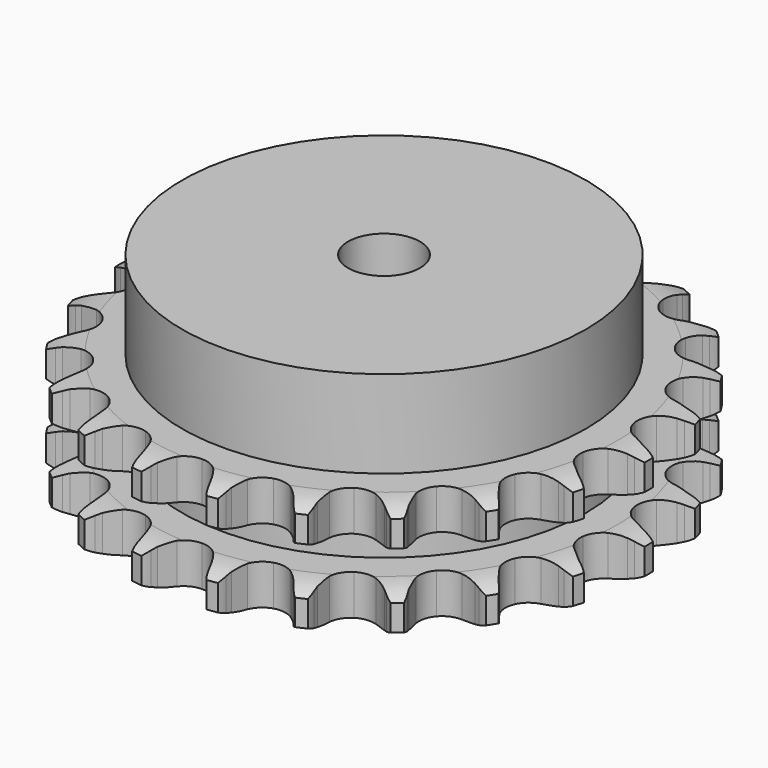
from build123d import *

# Parameters (mm, degrees)
PAD_DEPTH         = 25.5
SKETCH001_R       = 45
PAD001_DEPTH      = 45
SKETCH002_R       = 8
POCKET_DEPTH      = 0.001
POCKET_DEPTH_BACK = 45.001


with BuildPart() as part:
    # Sprocket → Pad (new body)
    with BuildSketch(Plane.XY):
        with BuildLine():
            ThreePointArc((-8.640686, 60.097289), (-7.303352, 58.644234), (-6.344236, 56.917988))
            Line((-6.344236, 56.917988), (-5.852618, 55.717672))
            ThreePointArc((-5.852618, 55.717672), (-5.064758, 54.112029), (-4.068161, 52.6269))
            ThreePointArc((-4.068161, 52.6269), (-2.265758, 51.156659), (0, 50.630726))
            ThreePointArc((0, 50.630726), (2.265758, 51.156659), (4.068161, 52.6269))
            ThreePointArc((4.068161, 52.6269), (5.064758, 54.112029), (5.852618, 55.717672))
            Line((5.852618, 55.717672), (6.344236, 56.917988))
            ThreePointArc((6.344236, 56.917988), (7.303352, 58.644234), (8.640686, 60.097289))
            ThreePointArc((8.640686, 60.097289), (9.514475, 58.326323), (9.9484, 56.399787))
            Line((9.9484, 56.399787), (10.081936, 55.109588))
            ThreePointArc((10.081936, 55.109588), (10.385521, 53.347019), (10.92334, 51.641274))
            ThreePointArc((10.92334, 51.641274), (12.238517, 49.722792), (14.264324, 48.579826))
            ThreePointArc((14.264324, 48.579826), (16.586475, 48.446117), (18.730083, 49.349008))
            Line((18.730083, 49.349008), (21.313028, 51.811841))
            ThreePointArc((21.313028, 51.811841), (21.705579, 52.328336), (22.122901, 52.825031))
            ThreePointArc((22.122901, 52.825031), (23.529505, 54.211138), (25.22204, 55.228564))
            ThreePointArc((25.22204, 55.228564), (25.561496, 53.28316), (25.435076, 51.312411))
            Line((25.435076, 51.312411), (25.199712, 50.036852))
            ThreePointArc((25.199712, 50.036852), (24.994426, 48.26015), (25.029896, 46.471979))
            ThreePointArc((25.029896, 46.471979), (25.751301, 44.260681), (27.373037, 42.593277))
            ThreePointArc((27.373037, 42.593277), (29.563455, 41.810758), (31.874605, 42.073152))
            Line((31.874605, 42.073152), (35.046783, 43.708524))
            ThreePointArc((35.046783, 43.708524), (35.568947, 44.093503), (36.109299, 44.452505))
            ThreePointArc((36.109299, 44.452505), (37.849438, 45.386179), (39.760055, 45.88555))
            ThreePointArc((39.760055, 45.88555), (39.537676, 43.923312), (38.861154, 42.068009))
            Line((38.861154, 42.068009), (38.275957, 40.910429))
            ThreePointArc((38.275957, 40.910429), (37.578432, 39.263532), (37.108679, 37.537801))
            ThreePointArc((37.108679, 37.537801), (37.177867, 35.212833), (38.26415, 33.156075))
            ThreePointArc((38.26415, 33.156075), (40.145379, 31.788141), (42.436836, 31.38878))
            Line((42.436836, 31.38878), (45.941257, 32.064202))
            ThreePointArc((45.941257, 32.064202), (46.55073, 32.286476), (47.170336, 32.478701))
            ThreePointArc((47.170336, 32.478701), (49.103034, 32.884301), (51.076947, 32.82516))
            ThreePointArc((51.076947, 32.82516), (50.310749, 31.005058), (49.138932, 29.415507))
            Line((49.138932, 29.415507), (48.251311, 28.469686))
            ThreePointArc((48.251311, 28.469686), (47.118056, 27.086015), (46.181137, 25.562533))
            ThreePointArc((46.181137, 25.562533), (45.592503, 23.31225), (46.055329, 21.032764))
            ThreePointArc((46.055329, 21.032764), (47.474963, 19.190238), (49.561087, 18.161475))
            Line((49.561087, 18.161475), (53.113842, 17.822228))
            ThreePointArc((53.113842, 17.822228), (53.761249, 17.863791), (54.409914, 17.873666))
            ThreePointArc((54.409914, 17.873666), (56.378594, 17.718332), (58.255888, 17.105472))
            ThreePointArc((58.255888, 17.105472), (57.007945, 15.574959), (55.435766, 14.379936))
            Line((55.435766, 14.379936), (54.317632, 13.722499))
            ThreePointArc((54.317632, 13.722499), (52.840456, 12.714151), (51.512275, 11.516341))
            ThreePointArc((51.512275, 11.516341), (50.313507, 9.523048), (50.115379, 7.205504))
            ThreePointArc((50.115379, 7.205504), (50.958409, 5.037656), (52.670194, 3.462836))
            Line((52.670194, 3.462836), (55.98346, 2.136404))
            ThreePointArc((55.98346, 2.136404), (56.616352, 1.993887), (57.241524, 1.820613))
            ThreePointArc((57.241524, 1.820613), (59.086696, 1.11693), (60.715283, 0))
            ThreePointArc((60.715283, 0), (59.086696, -1.11693), (57.241524, -1.820613))
            Line((57.241524, -1.820613), (55.98346, -2.136404))
            ThreePointArc((55.98346, -2.136404), (54.282037, -2.687739), (52.670194, -3.462836))
            ThreePointArc((52.670194, -3.462836), (50.958409, -5.037656), (50.115379, -7.205504))
            ThreePointArc((50.115379, -7.205504), (50.313507, -9.523048), (51.512275, -11.516341))
            Line((51.512275, -11.516341), (54.317632, -13.722499))
            ThreePointArc((54.317632, -13.722499), (54.884735, -14.037549), (55.435766, -14.379936))
            ThreePointArc((55.435766, -14.379936), (57.007945, -15.574959), (58.255888, -17.105472))
            ThreePointArc((58.255888, -17.105472), (56.378594, -17.718332), (54.409914, -17.873666))
            Line((54.409914, -17.873666), (53.113842, -17.822228))
            ThreePointArc((53.113842, -17.822228), (51.326009, -17.871883), (49.561087, -18.161475))
            ThreePointArc((49.561087, -18.161475), (47.474963, -19.190238), (46.055329, -21.032764))
            ThreePointArc((46.055329, -21.032764), (45.592503, -23.31225), (46.181137, -25.562533))
            Line((46.181137, -25.562533), (48.251311, -28.469686))
            ThreePointArc((48.251311, -28.469686), (48.706683, -28.931746), (49.138932, -29.415507))
            ThreePointArc((49.138932, -29.415507), (50.310749, -31.005058), (51.076947, -32.82516))
            ThreePointArc((51.076947, -32.82516), (49.103034, -32.884301), (47.170336, -32.478701))
            Line((47.170336, -32.478701), (45.941257, -32.064202))
            ThreePointArc((45.941257, -32.064202), (44.211854, -31.608154), (42.436836, -31.38878))
            ThreePointArc((42.436836, -31.38878), (40.145379, -31.788141), (38.26415, -33.156075))
            ThreePointArc((38.26415, -33.156075), (37.177867, -35.212833), (37.108679, -37.537801))
            Line((37.108679, -37.537801), (38.275957, -40.910429))
            ThreePointArc((38.275957, -40.910429), (38.582706, -41.482066), (38.861154, -42.068009))
            ThreePointArc((38.861154, -42.068009), (39.537676, -43.923312), (39.760055, -45.88555))
            ThreePointArc((39.760055, -45.88555), (37.849438, -45.386179), (36.109299, -44.452505))
            Line((36.109299, -44.452505), (35.046783, -43.708524))
            ThreePointArc((35.046783, -43.708524), (33.515917, -42.78372), (31.874605, -42.073152))
            ThreePointArc((31.874605, -42.073152), (29.563455, -41.810758), (27.373037, -42.593277))
            ThreePointArc((27.373037, -42.593277), (25.751301, -44.260681), (25.029896, -46.471979))
            Line((25.029896, -46.471979), (25.199712, -50.036852))
            ThreePointArc((25.199712, -50.036852), (25.332987, -50.671755), (25.435076, -51.312411))
            ThreePointArc((25.435076, -51.312411), (25.561496, -53.28316), (25.22204, -55.228564))
            ThreePointArc((25.22204, -55.228564), (23.529505, -54.211138), (22.122901, -52.825031))
            Line((22.122901, -52.825031), (21.313028, -51.811841))
            ThreePointArc((21.313028, -51.811841), (20.10472, -50.493204), (18.730083, -49.349008))
            ThreePointArc((18.730083, -49.349008), (16.586475, -48.446117), (14.264324, -48.579826))
            ThreePointArc((14.264324, -48.579826), (12.238517, -49.722792), (10.92334, -51.641274))
            Line((10.92334, -51.641274), (10.081936, -55.109588))
            ThreePointArc((10.081936, -55.109588), (10.03094, -55.75632), (9.9484, -56.399787))
            ThreePointArc((9.9484, -56.399787), (9.514475, -58.326323), (8.640686, -60.097289))
            ThreePointArc((8.640686, -60.097289), (7.303352, -58.644234), (6.344236, -56.917988))
            Line((6.344236, -56.917988), (5.852618, -55.717672))
            ThreePointArc((5.852618, -55.717672), (5.064758, -54.112029), (4.068161, -52.6269))
            ThreePointArc((4.068161, -52.6269), (2.265758, -51.156659), (0, -50.630726))
            ThreePointArc((0, -50.630726), (-2.265758, -51.156659), (-4.068161, -52.6269))
            Line((-4.068161, -52.6269), (-5.852618, -55.717672))
            ThreePointArc((-5.852618, -55.717672), (-6.083754, -56.323839), (-6.344236, -56.917988))
            ThreePointArc((-6.344236, -56.917988), (-7.303352, -58.644234), (-8.640686, -60.097289))
            ThreePointArc((-8.640686, -60.097289), (-9.514475, -58.326323), (-9.9484, -56.399787))
            Line((-9.9484, -56.399787), (-10.081936, -55.109588))
            ThreePointArc((-10.081936, -55.109588), (-10.385521, -53.347019), (-10.92334, -51.641274))
            ThreePointArc((-10.92334, -51.641274), (-12.238517, -49.722792), (-14.264324, -48.579826))
            ThreePointArc((-14.264324, -48.579826), (-16.586475, -48.446117), (-18.730083, -49.349008))
            Line((-18.730083, -49.349008), (-21.313028, -51.811841))
            ThreePointArc((-21.313028, -51.811841), (-21.705579, -52.328336), (-22.122901, -52.825031))
            ThreePointArc((-22.122901, -52.825031), (-23.529505, -54.211138), (-25.22204, -55.228564))
            ThreePointArc((-25.22204, -55.228564), (-25.561496, -53.28316), (-25.435076, -51.312411))
            Line((-25.435076, -51.312411), (-25.199712, -50.036852))
            ThreePointArc((-25.199712, -50.036852), (-24.994426, -48.26015), (-25.029896, -46.471979))
            ThreePointArc((-25.029896, -46.471979), (-25.751301, -44.260681), (-27.373037, -42.593277))
            ThreePointArc((-27.373037, -42.593277), (-29.563455, -41.810758), (-31.874605, -42.073152))
            Line((-31.874605, -42.073152), (-35.046783, -43.708524))
            ThreePointArc((-35.046783, -43.708524), (-35.568947, -44.093503), (-36.109299, -44.452505))
            ThreePointArc((-36.109299, -44.452505), (-37.849438, -45.386179), (-39.760055, -45.88555))
            ThreePointArc((-39.760055, -45.88555), (-39.537676, -43.923312), (-38.861154, -42.068009))
            Line((-38.861154, -42.068009), (-38.275957, -40.910429))
            ThreePointArc((-38.275957, -40.910429), (-37.578432, -39.263532), (-37.108679, -37.537801))
            ThreePointArc((-37.108679, -37.537801), (-37.177867, -35.212833), (-38.26415, -33.156075))
            ThreePointArc((-38.26415, -33.156075), (-40.145379, -31.788141), (-42.436836, -31.38878))
            Line((-42.436836, -31.38878), (-45.941257, -32.064202))
            ThreePointArc((-45.941257, -32.064202), (-46.55073, -32.286476), (-47.170336, -32.478701))
            ThreePointArc((-47.170336, -32.478701), (-49.103034, -32.884301), (-51.076947, -32.82516))
            ThreePointArc((-51.076947, -32.82516), (-50.310749, -31.005058), (-49.138932, -29.415507))
            Line((-49.138932, -29.415507), (-48.251311, -28.469686))
            ThreePointArc((-48.251311, -28.469686), (-47.118056, -27.086015), (-46.181137, -25.562533))
            ThreePointArc((-46.181137, -25.562533), (-45.592503, -23.31225), (-46.055329, -21.032764))
            ThreePointArc((-46.055329, -21.032764), (-47.474963, -19.190238), (-49.561087, -18.161475))
            Line((-49.561087, -18.161475), (-53.113842, -17.822228))
            ThreePointArc((-53.113842, -17.822228), (-53.761249, -17.863791), (-54.409914, -17.873666))
            ThreePointArc((-54.409914, -17.873666), (-56.378594, -17.718332), (-58.255888, -17.105472))
            ThreePointArc((-58.255888, -17.105472), (-57.007945, -15.574959), (-55.435766, -14.379936))
            Line((-55.435766, -14.379936), (-54.317632, -13.722499))
            ThreePointArc((-54.317632, -13.722499), (-52.840456, -12.714151), (-51.512275, -11.516341))
            ThreePointArc((-51.512275, -11.516341), (-50.313507, -9.523048), (-50.115379, -7.205504))
            ThreePointArc((-50.115379, -7.205504), (-50.958409, -5.037656), (-52.670194, -3.462836))
            Line((-52.670194, -3.462836), (-55.98346, -2.136404))
            ThreePointArc((-55.98346, -2.136404), (-56.616352, -1.993887), (-57.241524, -1.820613))
            ThreePointArc((-57.241524, -1.820613), (-59.086696, -1.11693), (-60.715283, 0))
            ThreePointArc((-60.715283, 0), (-59.086696, 1.11693), (-57.241524, 1.820613))
            Line((-57.241524, 1.820613), (-55.98346, 2.136404))
            ThreePointArc((-55.98346, 2.136404), (-54.282037, 2.687739), (-52.670194, 3.462836))
            ThreePointArc((-52.670194, 3.462836), (-50.958409, 5.037656), (-50.115379, 7.205504))
            ThreePointArc((-50.115379, 7.205504), (-50.313507, 9.523048), (-51.512275, 11.516341))
            Line((-51.512275, 11.516341), (-54.317632, 13.722499))
            ThreePointArc((-54.317632, 13.722499), (-54.884735, 14.037549), (-55.435766, 14.379936))
            ThreePointArc((-55.435766, 14.379936), (-57.007945, 15.574959), (-58.255888, 17.105472))
            ThreePointArc((-58.255888, 17.105472), (-56.378594, 17.718332), (-54.409914, 17.873666))
            Line((-54.409914, 17.873666), (-53.113842, 17.822228))
            ThreePointArc((-53.113842, 17.822228), (-51.326009, 17.871883), (-49.561087, 18.161475))
            ThreePointArc((-49.561087, 18.161475), (-47.474963, 19.190238), (-46.055329, 21.032764))
            ThreePointArc((-46.055329, 21.032764), (-45.592503, 23.31225), (-46.181137, 25.562533))
            Line((-46.181137, 25.562533), (-48.251311, 28.469686))
            ThreePointArc((-48.251311, 28.469686), (-48.706683, 28.931746), (-49.138932, 29.415507))
            ThreePointArc((-49.138932, 29.415507), (-50.310749, 31.005058), (-51.076947, 32.82516))
            ThreePointArc((-51.076947, 32.82516), (-49.103034, 32.884301), (-47.170336, 32.478701))
            Line((-47.170336, 32.478701), (-45.941257, 32.064202))
            ThreePointArc((-45.941257, 32.064202), (-44.211854, 31.608154), (-42.436836, 31.38878))
            ThreePointArc((-42.436836, 31.38878), (-40.145379, 31.788141), (-38.26415, 33.156075))
            ThreePointArc((-38.26415, 33.156075), (-37.177867, 35.212833), (-37.108679, 37.537801))
            Line((-37.108679, 37.537801), (-38.275957, 40.910429))
            ThreePointArc((-38.275957, 40.910429), (-38.582706, 41.482066), (-38.861154, 42.068009))
            ThreePointArc((-38.861154, 42.068009), (-39.537676, 43.923312), (-39.760055, 45.88555))
            ThreePointArc((-39.760055, 45.88555), (-37.849438, 45.386179), (-36.109299, 44.452505))
            Line((-36.109299, 44.452505), (-35.046783, 43.708524))
            ThreePointArc((-35.046783, 43.708524), (-33.515917, 42.78372), (-31.874605, 42.073152))
            ThreePointArc((-31.874605, 42.073152), (-29.563455, 41.810758), (-27.373037, 42.593277))
            ThreePointArc((-27.373037, 42.593277), (-25.751301, 44.260681), (-25.029896, 46.471979))
            Line((-25.029896, 46.471979), (-25.199712, 50.036852))
            ThreePointArc((-25.199712, 50.036852), (-25.332987, 50.671755), (-25.435076, 51.312411))
            ThreePointArc((-25.435076, 51.312411), (-25.561496, 53.28316), (-25.22204, 55.228564))
            ThreePointArc((-25.22204, 55.228564), (-23.529505, 54.211138), (-22.122901, 52.825031))
            Line((-22.122901, 52.825031), (-21.313028, 51.811841))
            ThreePointArc((-21.313028, 51.811841), (-20.10472, 50.493204), (-18.730083, 49.349008))
            ThreePointArc((-18.730083, 49.349008), (-16.586475, 48.446117), (-14.264324, 48.579826))
            ThreePointArc((-14.264324, 48.579826), (-12.238517, 49.722792), (-10.92334, 51.641274))
            Line((-10.92334, 51.641274), (-10.081936, 55.109588))
            ThreePointArc((-10.081936, 55.109588), (-10.03094, 55.75632), (-9.9484, 56.399787))
            ThreePointArc((-9.9484, 56.399787), (-9.514475, 58.326323), (-8.640686, 60.097289))
        make_face()
    extrude(amount=PAD_DEPTH)

    # Sketch → Groove (revolve, cut)
    with BuildSketch(Plane.XZ):
        with BuildLine():
            ThreePointArc((52.025762, 0), (55.60347, 0.405129), (59, 1.6))
            Line((59, 1.6), (59, 7.4))
            ThreePointArc((59, 7.4), (55.60347, 8.594871), (52.025762, 9))
            Line((45, 9), (52.025762, 9))
            Line((45, 16.5), (45, 9))
            Line((52.025762, 16.5), (45, 16.5))
            ThreePointArc((52.025762, 16.5), (55.60347, 16.905129), (59, 18.1))
            Line((59, 18.1), (59, 23.9))
            ThreePointArc((59, 23.9), (55.60347, 25.094871), (52.025762, 25.5))
            Line((52.025762, 25.5), (62.025762, 25.5))
            Line((62.025762, 25.5), (62.025762, 0))
            Line((52.025762, 0), (62.025762, 0))
        make_face()
    revolve(axis=Axis((0, 0, 0), (0, 0, 1)), mode=Mode.SUBTRACT)

    # Sketch001 → Pad001 (join)
    with BuildSketch(Plane.XY):
        Circle(SKETCH001_R)
    extrude(amount=PAD001_DEPTH)

    # Sketch002 → Pocket (cut, two sides)
    with BuildSketch(Plane.XY) as pocket_sk:
        Circle(SKETCH002_R)
    extrude(amount=-POCKET_DEPTH, mode=Mode.SUBTRACT)
    extrude(pocket_sk.sketch, amount=POCKET_DEPTH_BACK, mode=Mode.SUBTRACT)


solid = part.part
